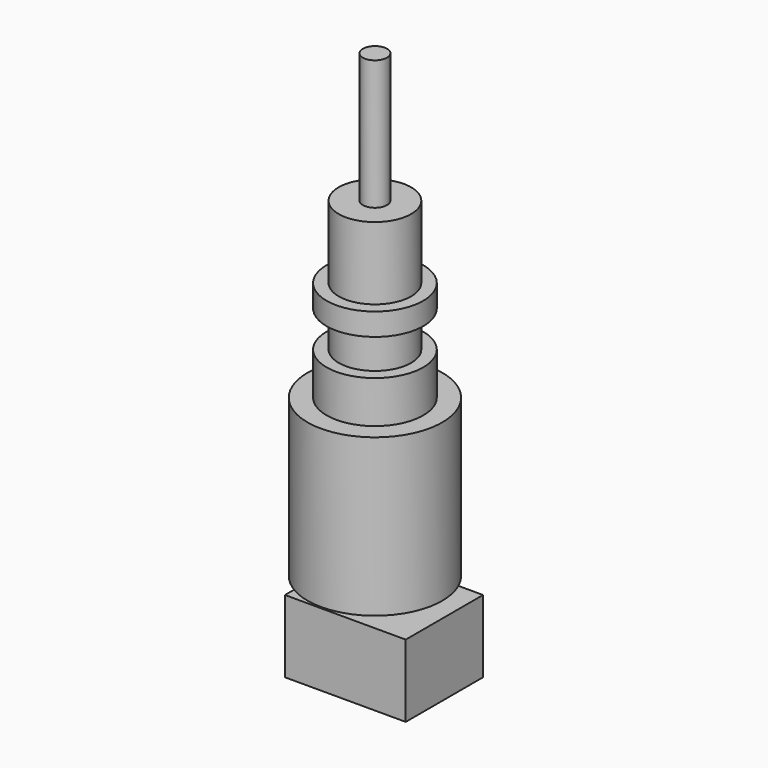
from build123d import *

# Parameters (mm, degrees)
F2_W     = 20
F2_H     = 12
F3_DEPTH = 8


with BuildPart() as f1:
    # F0 (on Front) → F1 (revolve)
    with BuildSketch(Plane.XZ):
        Polygon((-3.375, 0), (0, 0), (0, 78.4805588418), (-2, 78.4805588418), (-2, 56.99), (-6, 56.99), (-6, 44.99), (-8, 44.99), (-8, 41.29), (-6, 41.29), (-6, 35.29), (-8, 35.29), (-8, 28.29), (-11.15, 28.29), (-11.15, 2.29), (-3.375, 2.29), align=None)
    revolve(axis=Axis((0, 0, 37.5557746226), (0, 0, 1)))

    # F2 (on Front) → F3 (join, symmetric)
    with BuildSketch(Plane.XZ):
        with Locations((1.5, -6)):
            Rectangle(F2_W, F2_H)
    extrude(amount=F3_DEPTH, both=True)


solid = f1.part
